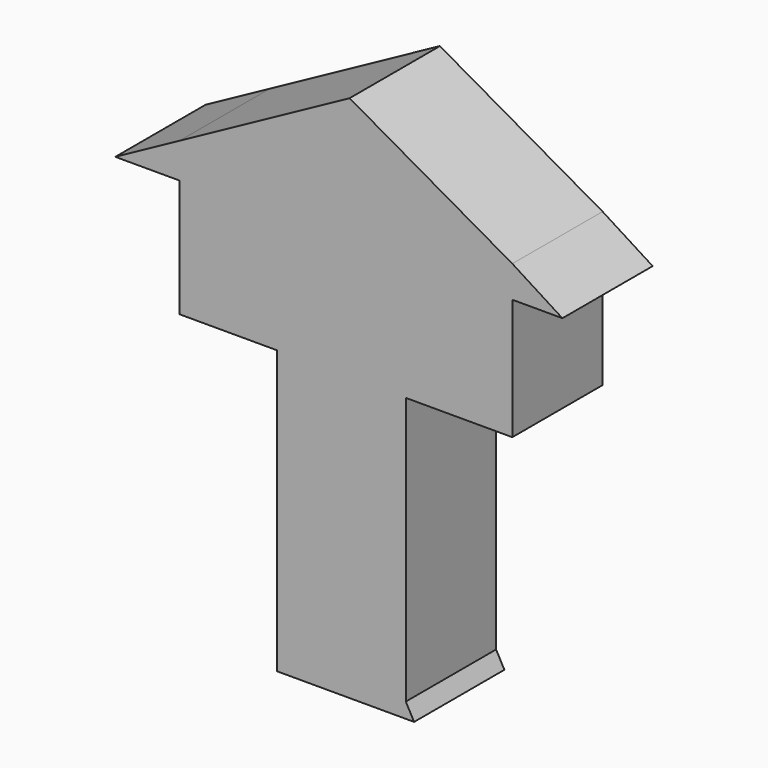
from build123d import *

# Parameters (mm, degrees)
F1_DEPTH = 25.4


with BuildPart() as f1:
    # F0 (on Front) → F1 (new body)
    with BuildSketch(Plane.XZ):
        Polygon((36.621895, 34.384649), (0, 55.268008), (-38.276557, 34.384649), (-29.714473, 34.384649), (-17.944092, 34.384649), align=None)
        Polygon((-38.276557, 26.495456), (-38.276557, 34.384649), (-52.73645, 26.495456), align=None)
        Polygon((-29.714473, 34.384649), (-38.276557, 34.384649), (-38.276557, 26.495456), (-38.276557, 0), (-29.714473, 0), (-16.381497, 0), (12.651484, 0), (36.621895, 0), (36.621895, 27.243869), (36.621895, 33.672655), (36.621895, 34.384649), (-17.944092, 34.384649), align=None)
        Polygon((47.895672, 27.243869), (36.621895, 34.384649), (36.621895, 33.672655), align=None)
        Polygon((47.895672, 27.243869), (36.621895, 33.672655), (36.621895, 27.243869), align=None)
        Polygon((12.651484, 0), (-16.381497, 0), (-16.381497, -57.907131), (-16.381497, -63.601866), (14.517904, -63.601866), (12.651484, -60.177624), align=None)
    extrude(amount=F1_DEPTH)


solid = f1.part
